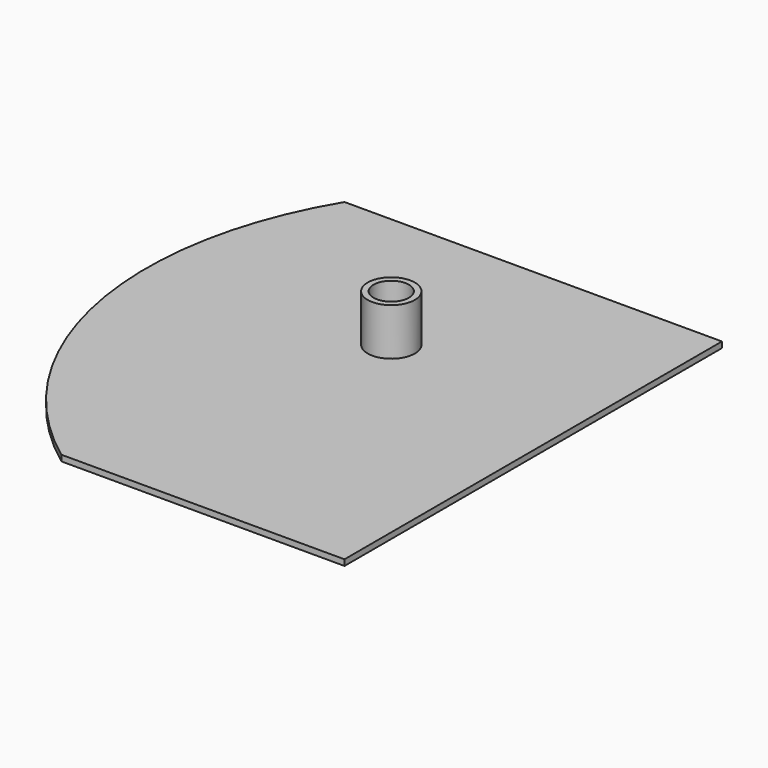
from build123d import *

# Parameters (mm, degrees)
F1_DEPTH = 76.2
F2_R     = 304.8
F2_R_2   = 228.6
F3_DEPTH = 609.6


with BuildPart() as f1:
    # F0 (on Top) → F1 (new body)
    with BuildSketch(Plane.XY):
        with BuildLine():
            Line((3048, -3048), (3048, 3048))
            Line((3048, 3048), (-1828.8, 3048))
            ThreePointArc((-1828.8, 3048), (-2397.577754, -235.675551), (-609.6, -3048))
            Line((-609.6, -3048), (3048, -3048))
        make_face()
    extrude(amount=F1_DEPTH)

    # F2 (on face) → F3 (join)
    with BuildSketch(Plane.XY.offset(76.2)):
        with Locations((488.900602, 906.274498)):
            Circle(F2_R)
        with Locations((488.900602, 906.274498)):
            Circle(F2_R_2, mode=Mode.SUBTRACT)
    extrude(amount=F3_DEPTH)


solid = f1.part
